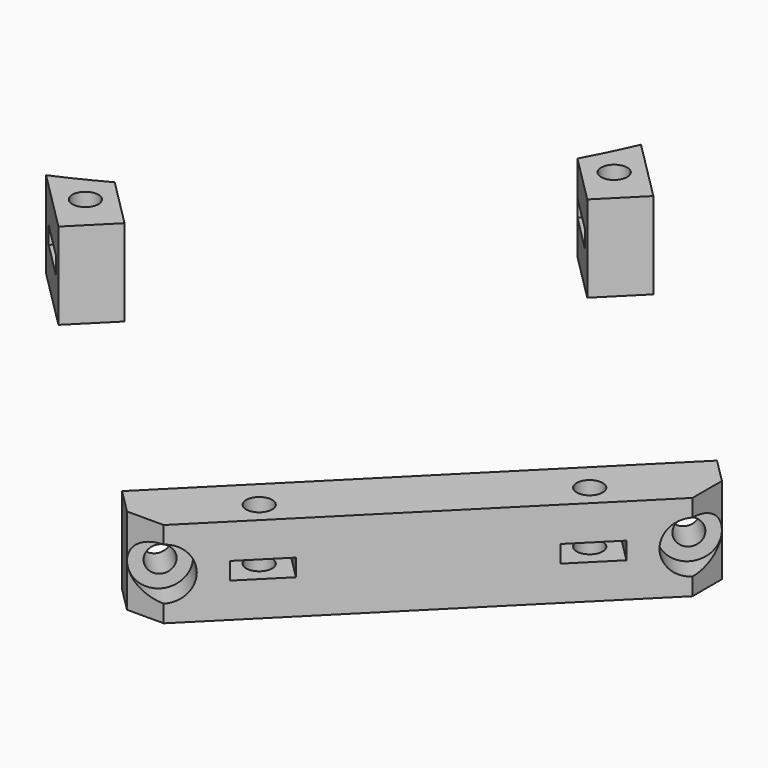
from build123d import *

# Parameters (mm, degrees)
CYLINDER2001_R               = 1.5
CYLINDER2001_DEPTH           = 60
CYLINDER1998_R               = 1.5
CYLINDER1998_DEPTH           = 60
CYLINDER1999_R               = 1.5
CYLINDER1999_DEPTH           = 60
CYLINDER2000_R               = 1.5
CYLINDER2000_DEPTH           = 60
COMPOUND1080_PLACEMENT_ANGLE = 225
CYLINDER1762_R               = 1.5
CYLINDER1762_DEPTH           = 50
COMPOUND894_PLACEMENT_ANGLE  = 225
CYLINDER1761_R               = 1.5
CYLINDER1761_DEPTH           = 50
COMPOUND893_PLACEMENT_ANGLE  = 225
CYLINDER1764_R               = 3
CYLINDER1764_DEPTH           = 3
COMPOUND897_PLACEMENT_ANGLE  = 225
CYLINDER1763_R               = 3
CYLINDER1763_DEPTH           = 3
COMPOUND896_PLACEMENT_ANGLE  = 225
BOX716_W                     = 6
BOX716_H                     = 6
BOX716_DEPTH                 = 2
BOX714_W                     = 6
BOX714_H                     = 6
BOX714_DEPTH                 = 2
BOX717_W                     = 6
BOX717_H                     = 6
BOX717_DEPTH                 = 2
BOX715_W                     = 6
BOX715_H                     = 6
BOX715_DEPTH                 = 2
COMPOUND899_PLACEMENT_ANGLE  = 225
CYLINDER1760_R               = 74
CYLINDER1760_DEPTH           = 40
BOX713_W                     = 42
BOX713_H                     = 62
BOX713_DEPTH                 = 50
COMPOUND892_PLACEMENT_ANGLE  = 225
BOX712_W                     = 56
BOX712_H                     = 52
BOX712_DEPTH                 = 10
COMPOUND891_PLACEMENT_ANGLE  = 225
BOX711_W                     = 54
BOX711_H                     = 70
BOX711_DEPTH                 = 10
COMPOUND890_PLACEMENT_ANGLE  = 225
CHAMFER_SIZE                 = 3


with BuildPart() as obj1:
    # Cylinder2001 → Cylinder2001 (new body)
    with BuildSketch(Plane(origin=(-24, 74, -80), x_dir=(1, 0, 0), z_dir=(0, 0, 1))):
        Circle(CYLINDER2001_R)
    extrude(amount=CYLINDER2001_DEPTH)


with BuildPart() as obj2:
    # Cylinder1998 → Cylinder1998 (new body)
    with BuildSketch(Plane(origin=(-15, 135, -80), x_dir=(1, 0, 0), z_dir=(0, 0, 1))):
        Circle(CYLINDER1998_R)
    extrude(amount=CYLINDER1998_DEPTH)


with BuildPart() as obj3:
    # Cylinder1999 → Cylinder1999 (new body)
    with BuildSketch(Plane(origin=(15, 135, -80), x_dir=(1, 0, 0), z_dir=(0, 0, 1))):
        Circle(CYLINDER1999_R)
    extrude(amount=CYLINDER1999_DEPTH)


with BuildPart() as compound1080:
    # Cylinder2000 → Cylinder2000 (new body)
    with BuildSketch(Plane(origin=(24, 74, -80), x_dir=(1, 0, 0), z_dir=(0, 0, 1))):
        Circle(CYLINDER2000_R)
    extrude(amount=CYLINDER2000_DEPTH)

    # Compound1080: union obj1, obj2, obj3
    add(obj1.part)
    add(obj2.part)
    add(obj3.part)


with BuildPart() as compound1080_1:
    # Compound1080 placement: moved
    add(compound1080.part.moved(Location((0, 0, 100))).rotate(Axis((0, 0, 100), (0, 0, 1)), COMPOUND1080_PLACEMENT_ANGLE))


with BuildPart() as compound894:
    # Cylinder1762 → Cylinder1762 (new body)
    with BuildSketch(Plane(origin=(24, 140, 72), x_dir=(1, 0, 0), z_dir=(0, -1, 0))):
        Circle(CYLINDER1762_R)
    extrude(amount=CYLINDER1762_DEPTH)


with BuildPart() as compound894_1:
    # Compound894 placement: moved
    add(compound894.part.rotate(Axis((0, 0, 0), (0, 0, 1)), COMPOUND894_PLACEMENT_ANGLE))


with BuildPart() as compound895:
    # Cylinder1761 → Cylinder1761 (new body)
    with BuildSketch(Plane(origin=(-24, 140, 72), x_dir=(1, 0, 0), z_dir=(0, -1, 0))):
        Circle(CYLINDER1761_R)
    extrude(amount=CYLINDER1761_DEPTH)


with BuildPart() as compound895_1:
    # Compound893 placement: moved
    add(compound895.part.rotate(Axis((0, 0, 0), (0, 0, 1)), COMPOUND893_PLACEMENT_ANGLE))

    # Compound895: union Compound894
    add(compound894_1.part)


with BuildPart() as compound895_2:
    # Compound895 placement: moved
    add(compound895_1.part.moved(Location((0, 0, -2))))


with BuildPart() as compound897:
    # Cylinder1764 → Cylinder1764 (new body)
    with BuildSketch(Plane(origin=(24, 138, 72), x_dir=(1, 0, 0), z_dir=(0, -1, 0))):
        Circle(CYLINDER1764_R)
    extrude(amount=CYLINDER1764_DEPTH)


with BuildPart() as compound897_1:
    # Compound897 placement: moved
    add(compound897.part.rotate(Axis((0, 0, 0), (0, 0, 1)), COMPOUND897_PLACEMENT_ANGLE))


with BuildPart() as compound898:
    # Cylinder1763 → Cylinder1763 (new body)
    with BuildSketch(Plane(origin=(-24, 138, 72), x_dir=(1, 0, 0), z_dir=(0, -1, 0))):
        Circle(CYLINDER1763_R)
    extrude(amount=CYLINDER1763_DEPTH)


with BuildPart() as compound898_1:
    # Compound896 placement: moved
    add(compound898.part.rotate(Axis((0, 0, 0), (0, 0, 1)), COMPOUND896_PLACEMENT_ANGLE))

    # Compound898: union Compound897
    add(compound897_1.part)


with BuildPart() as compound898_2:
    # Compound898 placement: moved
    add(compound898_1.part.moved(Location((0, 0, -2))))


with BuildPart() as krychle716:
    # Box716 → Box716 (new body)
    with BuildSketch(Plane(origin=(-18, 132, -48), x_dir=(1, 0, 0), z_dir=(0, 0, 1))):
        with Locations((3, 3)):
            Rectangle(BOX716_W, BOX716_H)
    extrude(amount=BOX716_DEPTH)


with BuildPart() as krychle714:
    # Box714 → Box714 (new body)
    with BuildSketch(Plane(origin=(21, 71, -48), x_dir=(1, 0, 0), z_dir=(0, 0, 1))):
        with Locations((3, 3)):
            Rectangle(BOX714_W, BOX714_H)
    extrude(amount=BOX714_DEPTH)


with BuildPart() as krychle717:
    # Box717 → Box717 (new body)
    with BuildSketch(Plane(origin=(12, 132, -48), x_dir=(1, 0, 0), z_dir=(0, 0, 1))):
        with Locations((3, 3)):
            Rectangle(BOX717_W, BOX717_H)
    extrude(amount=BOX717_DEPTH)


with BuildPart() as compound899:
    # Box715 → Box715 (new body)
    with BuildSketch(Plane(origin=(-27, 71, -48), x_dir=(1, 0, 0), z_dir=(0, 0, 1))):
        with Locations((3, 3)):
            Rectangle(BOX715_W, BOX715_H)
    extrude(amount=BOX715_DEPTH)

    # Compound899: union Krychle716, Krychle714, Krychle717
    add(krychle716.part)
    add(krychle714.part)
    add(krychle717.part)


with BuildPart() as compound899_1:
    # Compound899 placement: moved
    add(compound899.part.moved(Location((0, 0, 117))).rotate(Axis((0, 0, 117), (0, 0, 1)), COMPOUND899_PLACEMENT_ANGLE))


with BuildPart() as obj4:
    # Cylinder1760 → Cylinder1760 (new body)
    with BuildSketch(Plane.XY.offset(44)):
        Circle(CYLINDER1760_R)
    extrude(amount=CYLINDER1760_DEPTH)


with BuildPart() as compound892:
    # Box713 → Box713 (new body)
    with BuildSketch(Plane(origin=(-21, 62, 31), x_dir=(1, 0, 0), z_dir=(0, 0, 1))):
        with Locations((21, 31)):
            Rectangle(BOX713_W, BOX713_H)
    extrude(amount=BOX713_DEPTH)


with BuildPart() as compound892_1:
    # Compound892 placement: moved
    add(compound892.part.rotate(Axis((0, 0, 0), (0, 0, 1)), COMPOUND892_PLACEMENT_ANGLE))


with BuildPart() as compound891:
    # Box712 → Box712 (new body)
    with BuildSketch(Plane(origin=(-28, 79, 75), x_dir=(1, 0, 0), z_dir=(0, 0, 1))):
        with Locations((28, 26)):
            Rectangle(BOX712_W, BOX712_H)
    extrude(amount=BOX712_DEPTH)


with BuildPart() as compound891_1:
    # Compound891 placement: moved
    add(compound891.part.moved(Location((0, 0, -10))).rotate(Axis((0, 0, -10), (0, 0, 1)), COMPOUND891_PLACEMENT_ANGLE))


with BuildPart() as cut674:
    # Box711 → Box711 (new body)
    with BuildSketch(Plane(origin=(-27, 68, 75), x_dir=(1, 0, 0), z_dir=(0, 0, 1))):
        with Locations((27, 35)):
            Rectangle(BOX711_W, BOX711_H)
    extrude(amount=BOX711_DEPTH)


with BuildPart() as cut674_1:
    # Compound890 placement: moved
    add(cut674.part.moved(Location((0, 0, -10))).rotate(Axis((0, 0, -10), (0, 0, 1)), COMPOUND890_PLACEMENT_ANGLE))

    # Cut522: cut Compound891
    add(compound891_1.part, mode=Mode.SUBTRACT)

    # Cut523: cut Compound892
    add(compound892_1.part, mode=Mode.SUBTRACT)

    # Cut524: cut obj4
    add(obj4.part, mode=Mode.SUBTRACT)

    # Cut528: cut Compound899
    add(compound899_1.part, mode=Mode.SUBTRACT)

    # Chamfer
    chamfer_edges = [cut674_1.edges().sort_by_distance(p)[0] for p in [
        (116.672619, -78.488853, 70),
        (78.488853, -116.672619, 70),
    ]]
    chamfer(chamfer_edges, length=CHAMFER_SIZE)

    # Cut529: cut Compound898
    add(compound898_2.part, mode=Mode.SUBTRACT)

    # Cut530: cut Compound895
    add(compound895_2.part, mode=Mode.SUBTRACT)

    # Cut674: cut Compound1080
    add(compound1080_1.part, mode=Mode.SUBTRACT)


solid = cut674_1.part
